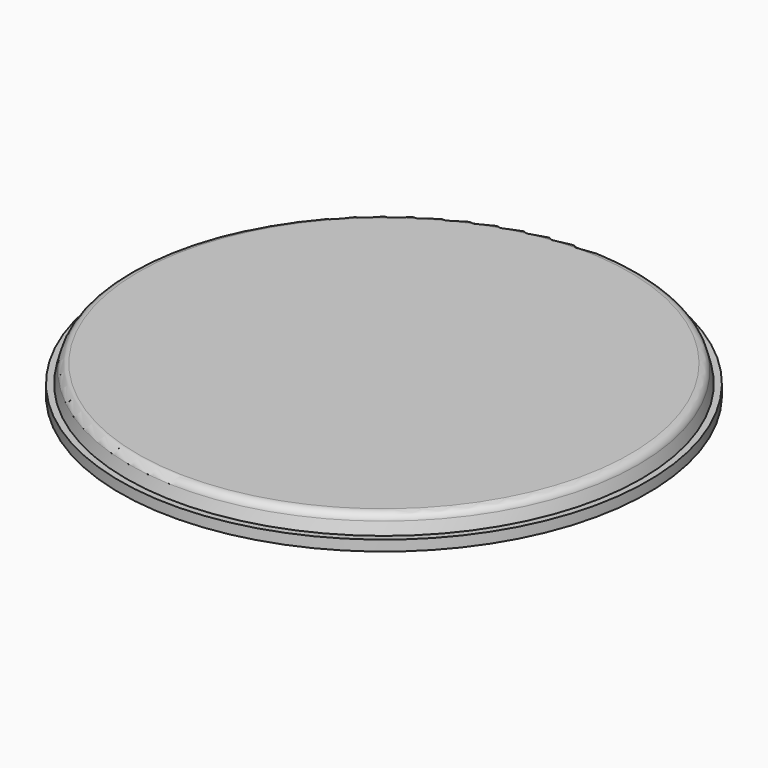
from build123d import *


with BuildPart() as f1:
    # F0 (on Front) → F1 (revolve)
    with BuildSketch(Plane.XZ):
        with BuildLine():
            Line((-177.8, 0), (0, 0))
            Line((0, 0), (0, 0.254))
            Line((0, 0.254), (-177.994901, 0.254))
            ThreePointArc((-177.994901, 0.254), (-181.860536, -1.058206), (-184.12853, -4.452499))
            Line((-184.12853, -4.452499), (-186.338441, -12.7))
            Line((-186.338441, -12.7), (-190.910441, -12.7))
            Line((-190.910441, -12.7), (-190.910441, -20.32))
            Line((-190.910441, -20.32), (-184.560441, -20.32))
            Line((-184.560441, -20.32), (-184.560441, -12.7))
            Line((-184.560441, -12.7), (-186.075481, -12.7))
            Line((-186.075481, -12.7), (-183.933629, -4.706499))
            ThreePointArc((-183.933629, -4.706499), (-181.665635, -1.312206), (-177.8, 0))
        make_face()
    revolve(axis=Axis((0, 0, -46.123708), (0, 0, -1)))


solid = f1.part
